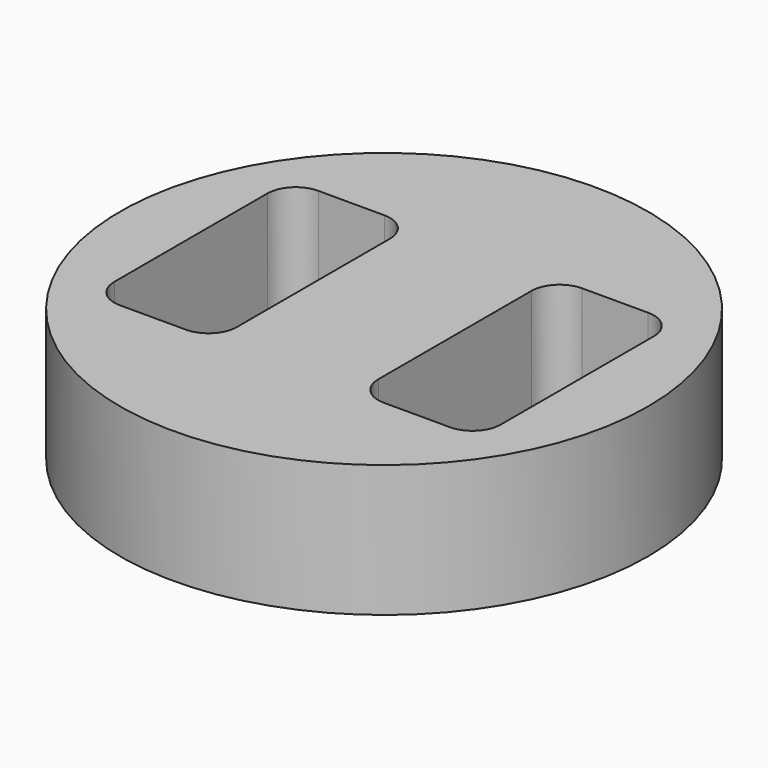
from build123d import *

# Parameters (mm, degrees)
F0_R     = 14
F1_DEPTH = 7


with BuildPart() as f1:
    # F0 (on Top) → F1 (new body)
    with BuildSketch(Plane.XY):
        Circle(F0_R)
        with BuildLine():
            Line((-8.75, 6.573926), (-5.25, 6.573926))
            ThreePointArc((-5.25, 6.573926), (-4.18934, 6.134586), (-3.75, 5.073926))
            Line((-3.75, 5.073926), (-3.75, -5.073926))
            ThreePointArc((-3.75, -5.073926), (-4.18934, -6.134586), (-5.25, -6.573926))
            Line((-5.25, -6.573926), (-8.75, -6.573926))
            ThreePointArc((-8.75, -6.573926), (-9.81066, -6.134586), (-10.25, -5.073926))
            Line((-10.25, -5.073926), (-10.25, 5.073926))
            ThreePointArc((-10.25, 5.073926), (-9.81066, 6.134586), (-8.75, 6.573926))
        make_face(mode=Mode.SUBTRACT)
        with BuildLine():
            Line((10.25, 5.073926), (10.25, -5.073926))
            ThreePointArc((10.25, -5.073926), (9.81066, -6.134586), (8.75, -6.573926))
            Line((8.75, -6.573926), (5.25, -6.573926))
            ThreePointArc((5.25, -6.573926), (4.18934, -6.134586), (3.75, -5.073926))
            Line((3.75, -5.073926), (3.75, 5.073926))
            ThreePointArc((3.75, 5.073926), (4.18934, 6.134586), (5.25, 6.573926))
            Line((5.25, 6.573926), (8.75, 6.573926))
            ThreePointArc((8.75, 6.573926), (9.81066, 6.134586), (10.25, 5.073926))
        make_face(mode=Mode.SUBTRACT)
    extrude(amount=F1_DEPTH)


solid = f1.part
